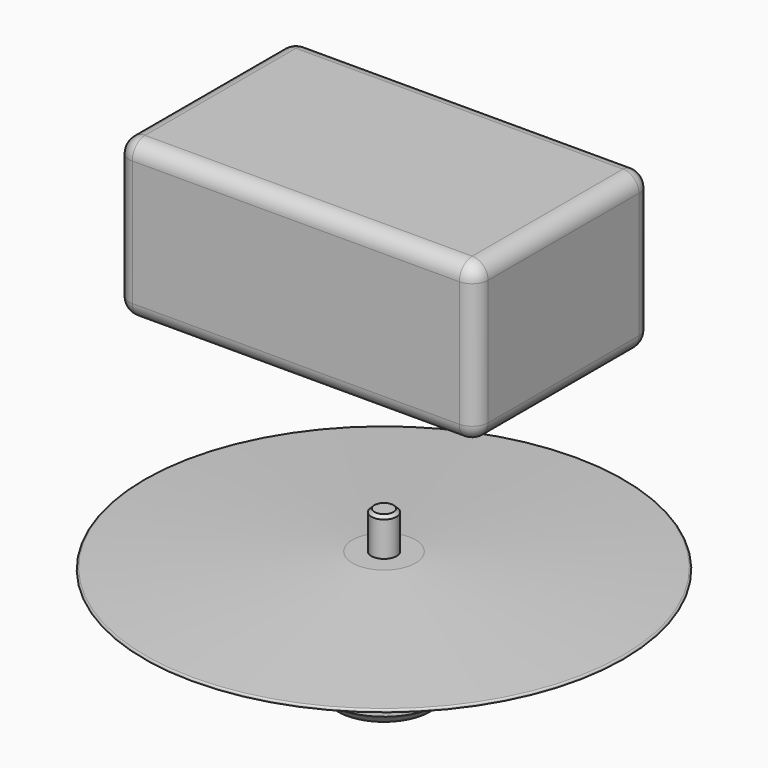
from build123d import *

# Parameters (mm, degrees)
F2_SIZE  = 0.5
F6_W     = 57
F6_H     = 35
F7_DEPTH = 25
F8_R     = 2.54


with BuildPart() as f1:
    # F0 (on Front) → F1 (revolve)
    with BuildSketch(Plane.XZ):
        Polygon((0, 26), (0, 0), (7.35, 0), (8.85, 1.5), (8.85, 11.5), (7.35, 13), (4, 13), (4, 15), (2, 15), (2, 26), align=None)
    revolve(axis=Axis((0, 0, 10.904766), (0, 0, 1)))

    # F2
    f2_edges = [f1.edges().sort_by_distance(p)[0] for p in [
        (-2, 0, 26),
    ]]
    chamfer(f2_edges, length=F2_SIZE)


with BuildPart() as f4:
    # F3 (on Front) → F4 (revolve)
    with BuildSketch(Plane.XZ):
        with BuildLine():
            Line((5, 20), (2, 20))
            Line((2, 20), (2, 15))
            Line((2, 15), (5, 15))
            Line((5, 15), (37.863323, 17.246591))
            ThreePointArc((37.863323, 17.246591), (38.1, 17.5), (37.863323, 17.753409))
            Line((37.863323, 17.753409), (5, 20))
        make_face()
    revolve(axis=Axis((0, 0, 16.523505), (0, 0, 1)))


with BuildPart() as f7:
    # F6 (on offset) → F7 (new body)
    with BuildSketch(Plane.XY.offset(50.8)):
        Rectangle(F6_W, F6_H)
    extrude(amount=F7_DEPTH)

    # F8
    f8_edges = [f7.edges().sort_by_distance(p)[0] for p in [
        (0, -17.5, 75.8),
        (28.5, 0, 75.8),
        (0, 17.5, 75.8),
        (-28.5, 0, 75.8),
        (0, -17.5, 50.8),
        (28.5, 0, 50.8),
        (0, 17.5, 50.8),
        (-28.5, 0, 50.8),
        (28.5, -17.5, 63.3),
        (-28.5, -17.5, 63.3),
        (-28.5, 17.5, 63.3),
        (28.5, 17.5, 63.3),
    ]]
    fillet(f8_edges, radius=F8_R)


solid = Compound([f1.part, f4.part, f7.part])
